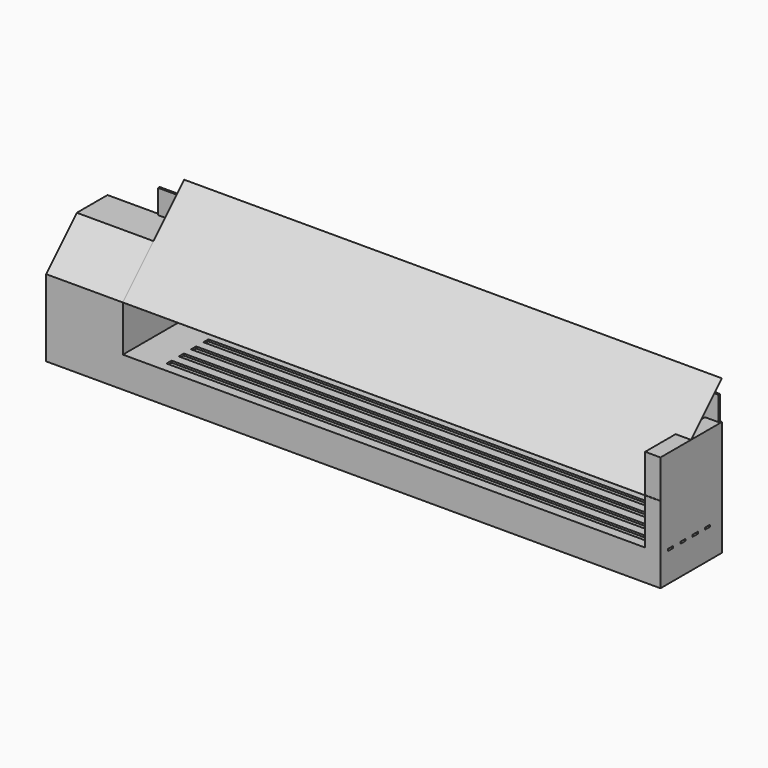
from build123d import *

# Parameters (mm, degrees)
F1_DEPTH  = 1000
F2_W      = 7297.247172
F2_H      = 1572.696477
F3_DEPTH  = 25
F4_R      = 204.2673
F5_DEPTH  = 300
F6_SIZE   = 500
F7_R      = 100
F8_W      = 7151.451826
F8_H      = 83.035737
F9_DEPTH  = 25
F10_W     = 7000
F10_H     = 1414.213562
F11_DEPTH = 2


with BuildPart() as f1:
    # F0 (on Front) → F1 (new body)
    with BuildSketch(Plane.XZ):
        Polygon((-1871.357652, 1500), (-2871.357652, 1500), (-2871.357652, 0), (5128.642348, 0), (5128.642348, 1500), (4928.642348, 1500), (4928.642348, 402.068209), (-1871.357652, 402.068209), align=None)
    extrude(amount=F1_DEPTH)

    # F2 (on face) → F3 (join)
    with BuildSketch(Plane(origin=(0, 0, 0), x_dir=(-1, 0, 0), z_dir=(0, 1, 0))):
        with Locations((-1456.470847, 1026.908978)):
            Rectangle(F2_W, F2_H)
    extrude(amount=-F3_DEPTH)

    # F4 (on face) → F5 (join)
    with BuildSketch(Plane.YZ.offset(-1871.357652)):
        with Locations((-511.823237, 1111.940503)):
            Circle(F4_R)
    extrude(amount=F5_DEPTH)

    # F6
    f6_edges = [f1.edges().sort_by_distance(p)[0] for p in [
        (-2371.357652, -1000, 1500),
    ]]
    chamfer(f6_edges, length=F6_SIZE)

    # F7
    f7_edges = [f1.edges().sort_by_distance(p)[0] for p in [
        (-1571.357652, -716.090537, 1111.940503),
    ]]
    fillet(f7_edges, radius=F7_R)

    # F8 (on face) → F9 (cut)
    with BuildSketch(Plane.XY.offset(402.068209)):
        with Locations((2172.755837, -234.309956)):
            Rectangle(F8_W, F8_H)
        with Locations((2172.755837, -434.309956)):
            Rectangle(F8_W, F8_H)
        with Locations((2172.755837, -634.309956)):
            Rectangle(F8_W, F8_H)
        with Locations((2172.755837, -834.309956)):
            Rectangle(F8_W, F8_H)
    extrude(amount=-F9_DEPTH, mode=Mode.SUBTRACT)


with BuildPart() as f11:
    # F10 (on face) → F11 (new body)
    with BuildSketch(Plane(origin=(0, -1000, 1000), x_dir=(1, 0, 0), z_dir=(0, -0.707107, 0.707107))):
        with Locations((1628.642348, 707.106781)):
            Rectangle(F10_W, F10_H)
    extrude(amount=F11_DEPTH)


solid = Compound([f1.part, f11.part])
